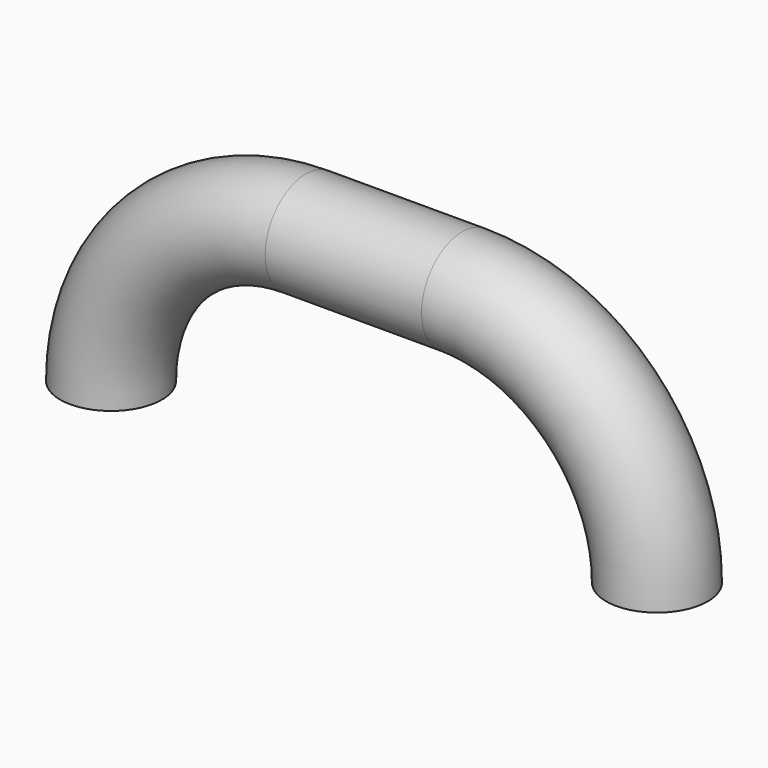
from build123d import *

# Parameters (mm, degrees)
F0_R     = 6
F3_R     = 2.5
F4_DEPTH = 2
F5_DEPTH = 2


with BuildPart() as f2:
    # F2: sweep along a path in F1
    with BuildLine(Plane.XZ) as f2_path:
        ThreePointArc((6, 0), (-2.493903, 20.506097), (-23, 29))
        Line((-23, 29), (-32.231277, 29))
        Line((-32.231277, 29), (-41.462554, 29))
        ThreePointArc((-41.462554, 29), (-61.96865, 20.506097), (-70.462554, 0))
    # F0 (on Top) → F2 (sweep)
    with BuildSketch(Plane.XY):
        Circle(F0_R)
    sweep(path=f2_path.line)

    # F3 (on face) → F4 (cut)
    with BuildSketch(Plane(origin=(0, 0, 0), x_dir=(1, 0, 0), z_dir=(0, 0, -1))):
        with Locations((-64.462554, 0)):
            Circle(F3_R)
    extrude(amount=-F4_DEPTH, mode=Mode.SUBTRACT)

    # F3 (on face) → F5 (cut)
    with BuildSketch(Plane(origin=(0, 0, 0), x_dir=(1, 0, 0), z_dir=(0, 0, -1))):
        Circle(F3_R)
    extrude(amount=-F5_DEPTH, mode=Mode.SUBTRACT)


solid = f2.part
